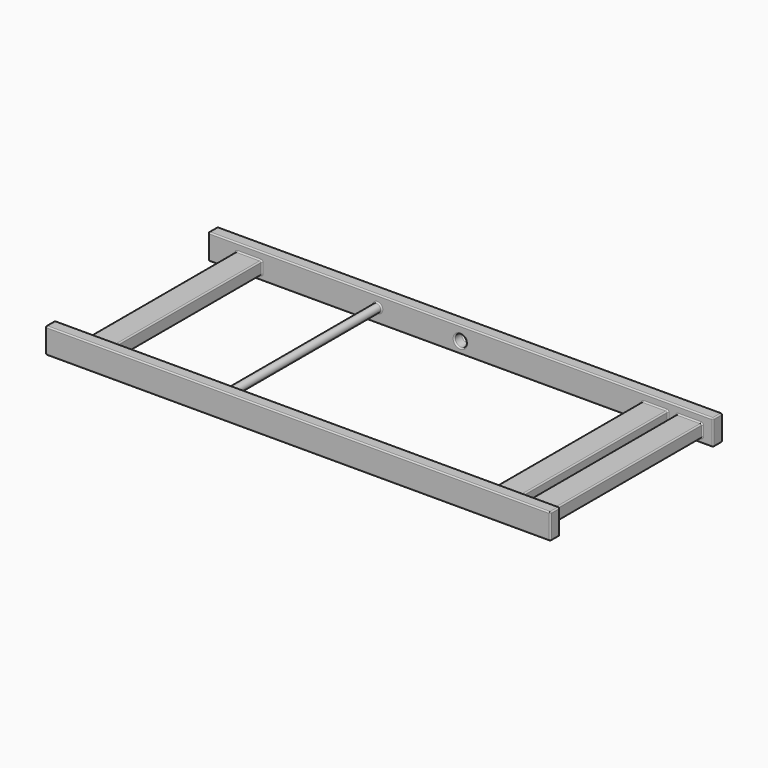
from build123d import *

# Parameters (mm, degrees)
F0_W      = 400
F0_H      = 20.15
F1_DEPTH  = 9.4
F2_W      = 20.1375
F2_H      = 9.95
F3_DEPTH  = 151.7
F4_W      = 400
F4_H      = 20.15
F5_DEPTH  = 9.4
F6_R      = 4.7
F7_DEPTH  = 8.4
F8_R      = 4.7
F9_DEPTH  = 8.4
F10_R     = 3.25
F11_DEPTH = 151.7
F12_R     = 1


with BuildPart() as f1:
    # F0 (on Front) → F1 (new body)
    with BuildSketch(Plane.XZ):
        Rectangle(F0_W, F0_H)
    extrude(amount=F1_DEPTH)

    # F2 (on face) → F3 (join)
    with BuildSketch(Plane.XZ.offset(9.4)):
        with Locations((-167.55625, -1.1)):
            Rectangle(F2_W, F2_H)
        with Locations((154.13375, -1.1)):
            Rectangle(F2_W, F2_H)
        with Locations((181.43125, -1.1)):
            Rectangle(F2_W, F2_H)
    extrude(amount=F3_DEPTH)

    # F4 (on face) → F5 (join)
    with BuildSketch(Plane.XZ.offset(161.1)):
        Rectangle(F4_W, F4_H)
    extrude(amount=F5_DEPTH)

    # F6 (on face) → F7 (cut)
    with BuildSketch(Plane(origin=(0, -161.1, 0), x_dir=(-1, 0, 0), z_dir=(0, 1, 0))):
        with Locations((0.26, -1)):
            Circle(F6_R)
    extrude(amount=-F7_DEPTH, mode=Mode.SUBTRACT)

    # F8 (on face) → F9 (cut)
    with BuildSketch(Plane.XZ.offset(9.4)):
        with Locations((-0.26, -1)):
            Circle(F8_R)
    extrude(amount=-F9_DEPTH, mode=Mode.SUBTRACT)

    # F10 (on face) → F11 (join, through all)
    with BuildSketch(Plane(origin=(0, -161.1, 0), x_dir=(-1, 0, 0), z_dir=(0, 1, 0))):
        with Locations((65.8375, 1.075)):
            Circle(F10_R)
    extrude(amount=F11_DEPTH)

    # F12
    f12_edges = [f1.edges().sort_by_distance(p)[0] for p in [
        (0, -170.5, -10.075),
        (200, -170.5, 0),
        (0, -170.5, 10.075),
        (-200, -170.5, 0),
        (191.5, -85.25, 3.875),
        (171.3625, -85.25, 3.875),
        (181.43125, -9.4, 3.875),
        (181.43125, -161.1, 3.875),
        (164.2025, -85.25, 3.875),
        (144.065, -85.25, 3.875),
        (154.13375, -9.4, 3.875),
        (154.13375, -161.1, 3.875),
        (0, -9.4, -10.075),
        (-200, -9.4, 0),
        (200, -9.4, 0),
        (0, -9.4, 10.075),
        (-157.4875, -9.4, -1.1),
        (-167.55625, -9.4, -6.075),
        (-167.55625, -9.4, 3.875),
        (-177.625, -9.4, -1.1),
        (-4.96, -9.4, -1),
        (164.2025, -9.4, -1.1),
        (154.13375, -9.4, -6.075),
        (144.065, -9.4, -1.1),
        (191.5, -9.4, -1.1),
        (181.43125, -9.4, -6.075),
        (171.3625, -9.4, -1.1),
        (-62.5875, -9.4, 1.075),
        (200, -165.8, -10.075),
        (200, -165.8, 10.075),
        (200, -161.1, 0),
        (0, -161.1, 10.075),
        (200, -4.7, 10.075),
        (-200, -4.7, 10.075),
        (0, 0, 10.075),
        (200, -4.7, -10.075),
        (200, 0, 0),
        (-157.4875, -85.25, -6.075),
        (-157.4875, -85.25, 3.875),
        (-157.4875, -161.1, -1.1),
        (-177.625, -85.25, 3.875),
        (-167.55625, -161.1, 3.875),
        (-200, -165.8, 10.075),
        (-200, -165.8, -10.075),
        (-200, -161.1, 0),
        (0, -161.1, -10.075),
        (-177.625, -85.25, -6.075),
        (-177.625, -161.1, -1.1),
        (-167.55625, -161.1, -6.075),
        (4.44, -161.1, -1),
        (164.2025, -161.1, -1.1),
        (154.13375, -161.1, -6.075),
        (144.065, -161.1, -1.1),
        (191.5, -161.1, -1.1),
        (181.43125, -161.1, -6.075),
        (171.3625, -161.1, -1.1),
        (-62.5875, -161.1, 1.075),
        (-200, -4.7, -10.075),
        (-200, 0, 0),
        (0, 0, -10.075),
        (171.3625, -85.25, -6.075),
        (191.5, -85.25, -6.075),
        (144.065, -85.25, -6.075),
        (164.2025, -85.25, -6.075),
        (4.44, -169.5, -1),
        (-4.96, -1, -1),
    ]]
    fillet(f12_edges, radius=F12_R)


solid = f1.part
